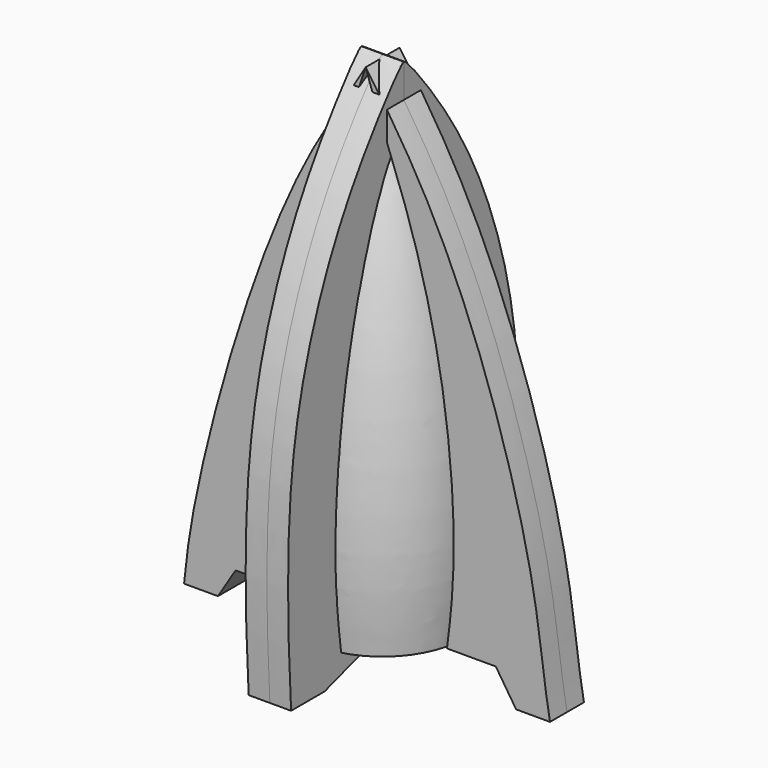
from build123d import *

# Parameters (mm, degrees)
F2_DEPTH = 5
F4_DEPTH = 5
F6_R     = 15.218603284
F7_DEPTH = 50


with BuildPart() as f1:
    # F0 (on Front) → F1 (revolve)
    with BuildSketch(Plane.XZ):
        with BuildLine():
            add(Edge.make_bspline(
                [(0, 52.5532476604), (2.6107242902, 44.2114355184), (10.1209167037, 26.8656779462), (18.9207252723, -6.3209934437), (21.6111461209, -40.8941300023), (19.9801372454, -55.4528275347), (19.1683582962, -61.8179515004)],
                knots=[0, 0, 0, 0, 0.2420795839, 0.5165444069, 0.7897388021, 1, 1, 1, 1], degree=3))
            Line((0, 52.5532476604), (0, -61.8179515004))
            Line((0, -61.8179515004), (19.1683582962, -61.8179515004))
        make_face()
    revolve(axis=Axis((0, 0, -4.63235192), (0, 0, -1)))

    # F0 (on Front) → F2 (join, symmetric)
    with BuildSketch(Plane.XZ):
        with BuildLine():
            add(Edge.make_bspline(
                [(0, 52.5532476604), (5.7937135427, 44.5675662384), (16.6186930467, 27.4392118639), (30.4569483883, -5.7491705086), (40.5102909017, -43.1093197012), (41.9327566079, -61.0383403232), (43.4482768178, -69.1658258438)],
                knots=[0, 0, 0, 0, 0.2392039747, 0.5039164767, 0.7768609064, 1, 1, 1, 1], degree=3))
            add(Edge.make_bspline(
                [(0, 52.5532476604), (2.6107242902, 44.2114355184), (10.1209167037, 26.8656779462), (18.9207252723, -6.3209934437), (21.6111461209, -40.8941300023), (19.9801372454, -55.4528275347), (19.1683582962, -61.8179515004)],
                knots=[0, 0, 0, 0, 0.2420795839, 0.5165444069, 0.7897388021, 1, 1, 1, 1], degree=3))
            Line((19.1683582962, -61.8179515004), (30.6693688035, -61.8179515004))
            Line((30.6693688035, -61.8179515004), (35.4614630342, -69.1658258438))
            Line((35.4614630342, -69.1658258438), (43.4482768178, -69.1658258438))
        make_face()
        with BuildLine():
            add(Edge.make_bspline(
                [(0, 52.5532476604), (-2.6107242902, 44.2114355184), (-10.1209167037, 26.8656779462), (-18.9207252723, -6.3209934437), (-21.6111461209, -40.8941300023), (-19.9801372454, -55.4528275347), (-19.1683582962, -61.8179515004)],
                knots=[0, 0, 0, 0, 0.2420795839, 0.5165444069, 0.7897388021, 1, 1, 1, 1], degree=3))
            add(Edge.make_bspline(
                [(0, 52.5532476604), (-4.5758516976, 44.7584759148), (-15.4915101462, 28.2578589936), (-28.9613045774, -6.1706203584), (-38.833986536, -42.0005328373), (-42.0025167129, -59.6801020328), (-42.8091473398, -68.526878953)],
                knots=[0, 0, 0, 0, 0.2344836404, 0.5039418594, 0.772812103, 1, 1, 1, 1], degree=3))
            Line((-42.8091473398, -68.526878953), (-34.8221473398, -68.526878953))
            Line((-34.8221473398, -68.526878953), (-30.669, -61.8179515004))
            Line((-30.669, -61.8179515004), (-19.1683582962, -61.8179515004))
        make_face()
    extrude(amount=F2_DEPTH, both=True)


with BuildPart() as f4:
    # F3 (on Right) → F4 (new body, symmetric)
    with BuildSketch(Plane.YZ):
        with BuildLine():
            Line((-33.2251526415, -67.8879320621), (-23.3215019107, -67.8879320621))
            Line((-23.3215019107, -67.8879320621), (0, -60.4088529944))
            Line((0, -60.4088529944), (0, 52.8727211058))
            Line((0, 52.8727211058), (0, 53.1921945512))
            add(Edge.make_bspline(
                [(-33.2251526415, -67.8879320621), (-34.256642447, -51.2189023983), (-34.7821792002, -21.7594952268), (-27.8271289781, 8.8527738849), (-15.502732931, 35.5024516937), (-0.395167417, 53.8783305862), (0, 53.1921945512)],
                knots=[0, 0, 0, 0, 0.2961775361, 0.5352479572, 0.7849253433, 0.9754881409, 0.9754881409, 0.9754881409, 0.9754881409], degree=3))
        make_face()
    extrude(amount=F4_DEPTH, both=True)


with BuildPart() as f5_1:
    # F5: instance of F4
    add(f4.part.mirror(Plane.XZ))


with BuildPart() as f7_tool:
    # F6 (on face) → F7 (new body)
    with BuildSketch(Plane(origin=(0, 0, -61.8179515004), x_dir=(1, 0, 0), z_dir=(0, 0, -1))):
        Circle(F6_R)
    extrude(amount=-F7_DEPTH)


with BuildPart() as f1_1:
    add(f1.part)

    # F7: cut by f7_tool
    add(f7_tool.part, mode=Mode.SUBTRACT)


with BuildPart() as f4_1:
    add(f4.part)

    # F7: cut by f7_tool
    add(f7_tool.part, mode=Mode.SUBTRACT)


with BuildPart() as f5_1_1:
    add(f5_1.part)

    # F7: cut by f7_tool
    add(f7_tool.part, mode=Mode.SUBTRACT)


solid = Compound([f1_1.part, f4_1.part, f5_1_1.part])
